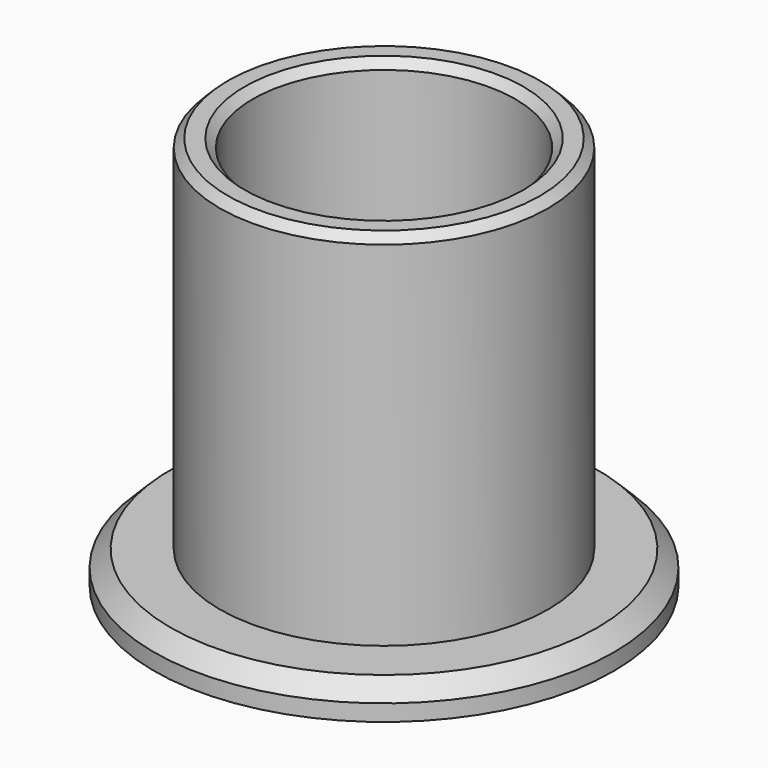
from build123d import *

# Parameters (mm, degrees)
SKETCH_R        = 14
SKETCH_R_2      = 8
PAD_DEPTH       = 2
SKETCH001_R     = 10
SKETCH001_R_2   = 8
PAD001_DEPTH    = 22
CHAMFER_SIZE    = 0.5
CHAMFER001_SIZE = 0.5
CHAMFER002_SIZE = 0.5
CHAMFER003_SIZE = 1


with BuildPart() as part:
    # Sketch → Pad (new body)
    with BuildSketch(Plane.XY):
        Circle(SKETCH_R)
        Circle(SKETCH_R_2, mode=Mode.SUBTRACT)
    extrude(amount=PAD_DEPTH)

    # Sketch001 (on Face4 of Pad) → Pad001 (join)
    with BuildSketch(Plane.XY.offset(2)):
        Circle(SKETCH001_R)
        Circle(SKETCH001_R_2, mode=Mode.SUBTRACT)
    extrude(amount=PAD001_DEPTH)

    # Chamfer
    chamfer_edges = [part.edges().sort_by_distance(p)[0] for p in [
        (-8, 0, 24),
    ]]
    chamfer(chamfer_edges, length=CHAMFER_SIZE)

    # Chamfer001
    chamfer001_edges = [part.edges().sort_by_distance(p)[0] for p in [
        (-10, 0, 24),
    ]]
    chamfer(chamfer001_edges, length=CHAMFER001_SIZE)

    # Chamfer002
    chamfer002_edges = [part.edges().sort_by_distance(p)[0] for p in [
        (-8, 0, 0),
    ]]
    chamfer(chamfer002_edges, length=CHAMFER002_SIZE)

    # Chamfer003
    chamfer003_edges = [part.edges().sort_by_distance(p)[0] for p in [
        (-14, 0, 2),
    ]]
    chamfer(chamfer003_edges, length=CHAMFER003_SIZE)


solid = part.part
